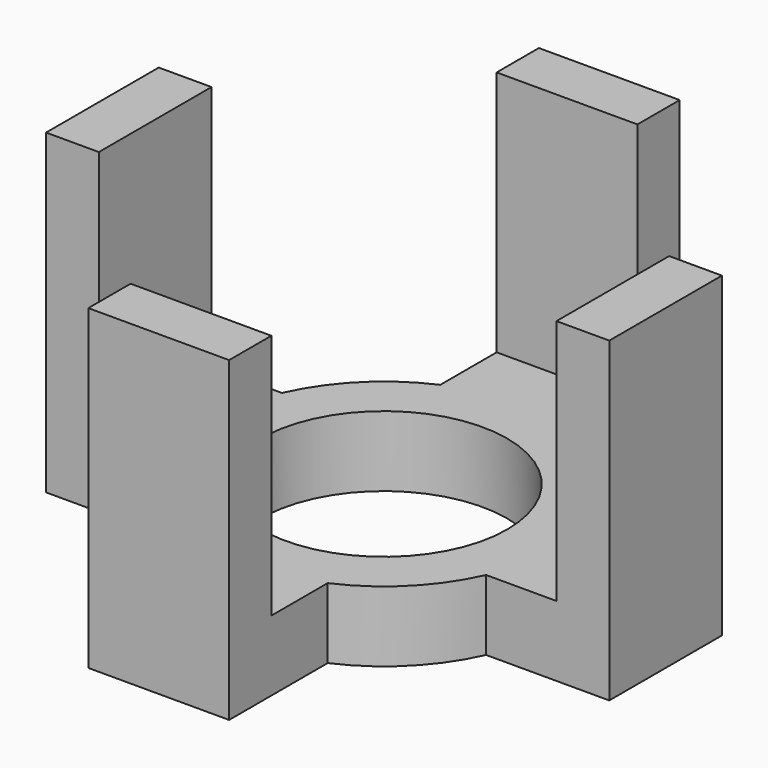
from build123d import *

# Parameters (mm, degrees)
SKETCH_R           = 3.5
PAD_DEPTH          = 2
SKETCH001_W        = 4
SKETCH001_H        = 1.5
PAD001_DEPTH       = 7
POLARPATTERN_COUNT = 4


with BuildPart() as part:
    # Sketch → Pad (new body)
    with BuildSketch(Plane.XY):
        with BuildLine():
            Line((-8, 2), (-8, -2))
            Line((-8, -2), (-4.5, -2))
            ThreePointArc((-4.5, -2), (-3.482097, -3.482097), (-2, -4.5))
            Line((-2, -8), (-2, -4.5))
            Line((-2, -8), (2, -8))
            Line((2, -8), (2, -4.5))
            ThreePointArc((2, -4.5), (3.482097, -3.482097), (4.5, -2))
            Line((8, -2), (4.5, -2))
            Line((8, -2), (8, 2))
            Line((8, 2), (4.5, 2))
            ThreePointArc((4.5, 2), (3.482097, 3.482097), (2, 4.5))
            Line((2, 8), (2, 4.5))
            Line((2, 8), (-2, 8))
            Line((-2, 8), (-2, 4.5))
            ThreePointArc((-2, 4.5), (-3.482097, 3.482097), (-4.5, 2))
            Line((-8, 2), (-4.5, 2))
        make_face()
        Circle(SKETCH_R, mode=Mode.SUBTRACT)
    extrude(amount=-PAD_DEPTH)

    # Sketch001 → Pad001 (join)
    with BuildSketch(Plane.XY):
        with Locations((0, 7.25)):
            Rectangle(SKETCH001_W, SKETCH001_H)
    pad001 = extrude(amount=PAD001_DEPTH)

    # PolarPattern: Pad001 ×4 about axis
    polarpattern_axis = Axis((0, 0, 0), (0, 0, 1))
    for i in range(1, POLARPATTERN_COUNT):
        add(pad001.rotate(polarpattern_axis, i * 360 / POLARPATTERN_COUNT))


solid = part.part
